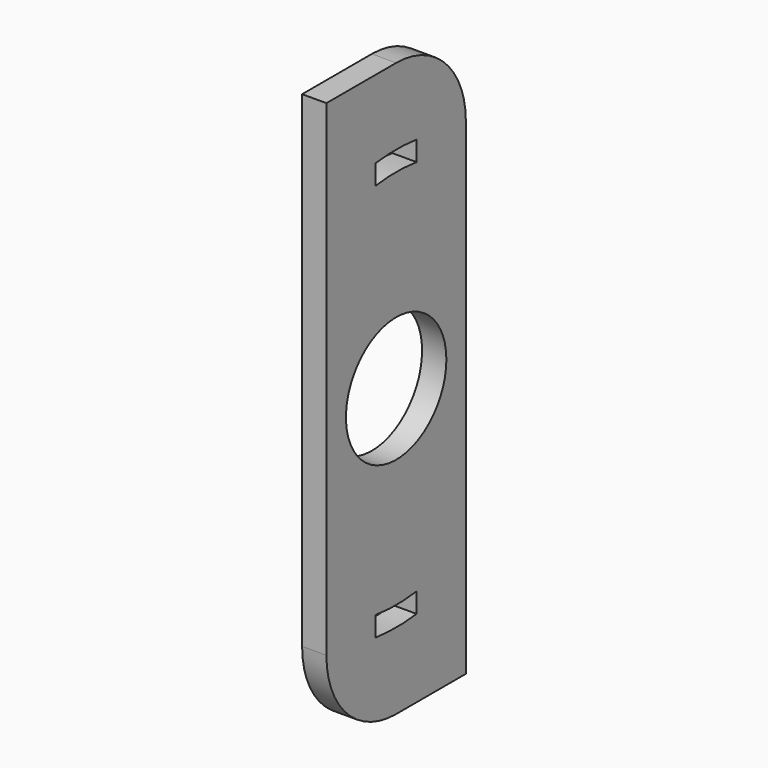
from build123d import *

# Parameters (mm, degrees)
F1_DEPTH      = 1.32842
F2_R          = 6.858
F3_DEPTH      = 1.32942
F3_DEPTH_BACK = 1.32942
F5_DEPTH      = 2.65784


with BuildPart() as f1:
    # F0 (on Right) → F1 (new body, symmetric)
    with BuildSketch(Plane.YZ):
        with BuildLine():
            Line((0, 31.3182), (-9.525, 31.3182))
            Line((-9.525, 31.3182), (-9.525, -21.7932))
            ThreePointArc((-9.525, -21.7932), (-6.7351920908, -28.5283920908), (0, -31.3182))
            Line((0, -31.3182), (9.525, -31.3182))
            Line((9.525, -31.3182), (9.525, 21.7932))
            ThreePointArc((9.525, 21.7932), (6.7351920908, 28.5283920908), (0, 31.3182))
        make_face()
    extrude(amount=F1_DEPTH, both=True)

    # F2 (on Right) → F3 (cut, two sides)
    with BuildSketch(Plane.YZ) as f3_sk:
        Circle(F2_R)
    extrude(amount=-F3_DEPTH, mode=Mode.SUBTRACT)
    extrude(f3_sk.sketch, amount=F3_DEPTH_BACK, mode=Mode.SUBTRACT)

    # F4 (on face) → F5 (cut, through all)
    with BuildSketch(Plane(origin=(-1.32842, 0, 0), x_dir=(0, -1, 0), z_dir=(-1, 0, 0))):
        with BuildLine():
            Line((2.794, 20.6397468008), (2.794, 22.8165670731))
            ThreePointArc((2.794, 22.8165670731), (0, 22.987), (-2.794, 22.8165670731))
            Line((-2.794, 22.8165670731), (-2.794, 20.6397468008))
            ThreePointArc((-2.794, 20.6397468008), (0, 20.828), (2.794, 20.6397468008))
        make_face()
        with BuildLine():
            Line((-2.794, -20.6397468008), (-2.794, -22.8165670731))
            ThreePointArc((-2.794, -22.8165670731), (0, -22.987), (2.794, -22.8165670731))
            Line((2.794, -22.8165670731), (2.794, -20.6397468008))
            ThreePointArc((2.794, -20.6397468008), (0, -20.828), (-2.794, -20.6397468008))
        make_face()
    extrude(amount=-F5_DEPTH, mode=Mode.SUBTRACT)


solid = f1.part
